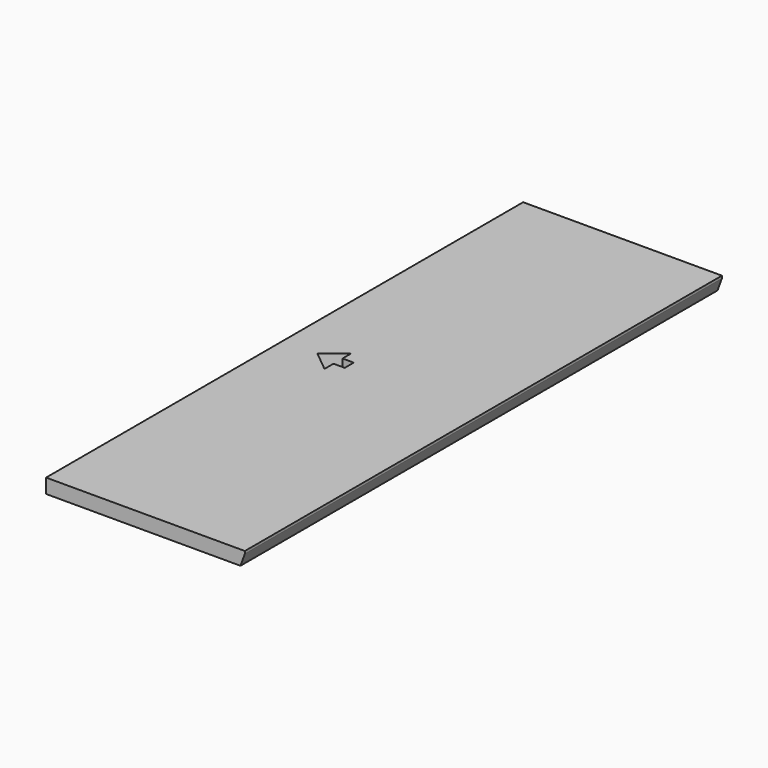
from build123d import *

# Parameters (mm, degrees)
PAD_DEPTH     = 12
POCKET_DEPTH  = 12.001
CHAMFER_ANGLE = 20
CHAMFER_SIZE  = 10


with BuildPart() as part:
    # Sketch → Pad (new body)
    with BuildSketch(Plane.XY):
        Polygon((0, 495), (165, 495), (165, 0), (0, 0), (0, 247.5), align=None)
    extrude(amount=PAD_DEPTH)

    # Sketch001 (on Face7 of Pad) → Pocket (cut, through all)
    with BuildSketch(Plane.XY.offset(12)):
        Polygon((45.608967, 259.905869), (28.476261, 245.880386), (45.608967, 231.854903), (45.608967, 241.205225), (54.959289, 241.205225), (54.959289, 250.555547), (45.608967, 250.555547), align=None)
    extrude(amount=-POCKET_DEPTH, mode=Mode.SUBTRACT)

    # Chamfer
    chamfer_edges = [part.edges().sort_by_distance(p)[0] for p in [
        (165, 247.5, 0),
    ]]
    chamfer_side = part.faces().sort_by_distance((165, 247.5, 6))[0]
    chamfer(chamfer_edges, length=CHAMFER_SIZE, angle=CHAMFER_ANGLE, reference=chamfer_side)


solid = part.part
